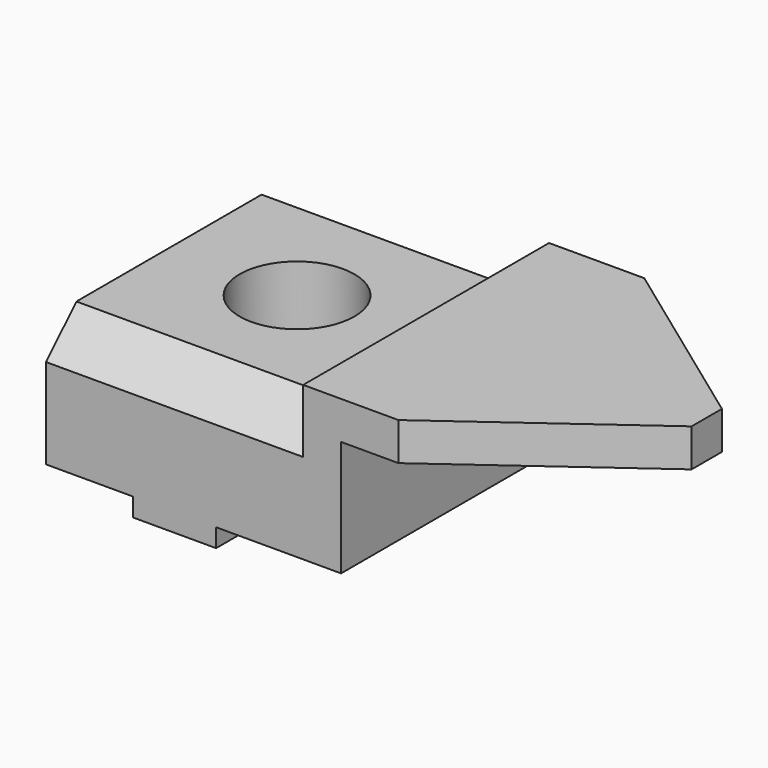
from build123d import *

# Parameters (mm, degrees)
F0_W      = 133.35
F0_H      = 76.2
F1_DEPTH  = 42.672
F2_W      = 21.59
F2_H      = 4.572
F3_DEPTH  = 76.201
F5_DEPTH  = 42.673
F4_W      = 63.754
F4_H      = 76.2
F6_DEPTH  = 6.35
F3_FACE_W = 76.2
F3_FACE_H = 28.702
F7_DEPTH  = 9.398
F9_DEPTH  = 63.754
F10_R     = 14.224
F11_DEPTH = 36.323


with BuildPart() as f1:
    # F0 (on Top) → F1 (new body)
    with BuildSketch(Plane.XY):
        with Locations((-21.765223, 12.652185)):
            Rectangle(F0_W, F0_H)
    extrude(amount=F1_DEPTH)

    # F2 (on face) → F3 (cut, through all)
    with BuildSketch(Plane.XZ.offset(25.447815)):
        with Locations((-77.645223, 2.286)):
            Rectangle(F2_W, F2_H)
        Polygon((44.909777, 0), (44.909777, 33.274), (-24.686223, 33.274), (-24.686223, 4.572), (-46.276223, 4.572), (-46.276223, 0), align=None)
    extrude(amount=-F3_DEPTH, mode=Mode.SUBTRACT)

    # F4 (on face) → F5 (cut, through all)
    with BuildSketch(Plane.XY.offset(42.672)):
        Polygon((44.909777, 50.752185), (-1.064223, 50.752185), (44.909777, 17.351185), align=None)
        Polygon((44.909777, 7.953185), (-1.064223, -25.447815), (44.909777, -25.447815), align=None)
    extrude(amount=-F5_DEPTH, mode=Mode.SUBTRACT)

    # F4 (on face) → F6 (cut)
    with BuildSketch(Plane.XY.offset(42.672)):
        with Locations((-56.563223, 12.652185)):
            Rectangle(F4_W, F4_H)
    extrude(amount=-F6_DEPTH, mode=Mode.SUBTRACT)

    # F3_face (on face) → F7 (join)
    with BuildSketch(Plane(origin=(-24.686223, 12.652185, 18.923), x_dir=(0, 1, 0), z_dir=(1, 0, 0))):
        Rectangle(F3_FACE_W, F3_FACE_H)
    extrude(amount=F7_DEPTH)

    # F8 (on face) → F9 (cut)
    with BuildSketch(Plane(origin=(-88.440223, 0, 0), x_dir=(0, -1, 0), z_dir=(-1, 0, 0))):
        Polygon((-50.752185, 26.924), (-41.354185, 36.322), (-50.752185, 36.322), align=None)
        Polygon((25.447815, 36.322), (16.049815, 36.322), (25.447815, 26.924), align=None)
    extrude(amount=-F9_DEPTH, mode=Mode.SUBTRACT)

    # F10 (on face) → F11 (cut, through all)
    with BuildSketch(Plane.XY.offset(36.322)):
        with Locations((-56.690223, 12.652185)):
            Circle(F10_R)
    extrude(amount=-F11_DEPTH, mode=Mode.SUBTRACT)


solid = f1.part
